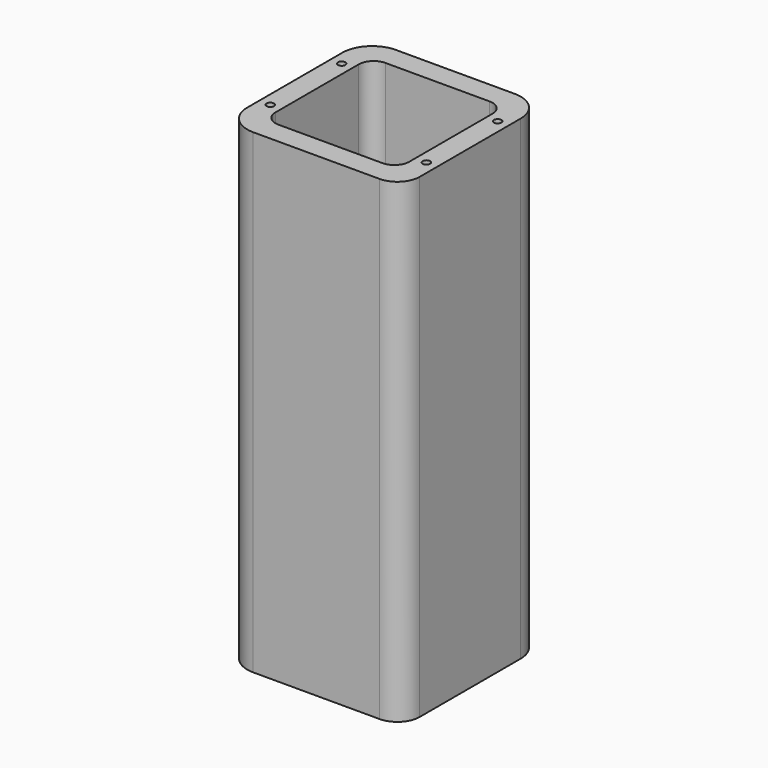
from build123d import *

# Parameters (mm, degrees)
F1_DEPTH = 203.2
F2_R     = 1.5875
F3_DEPTH = 25.4
F4_R     = 1.5875
F5_DEPTH = 25.4


with BuildPart() as f1:
    # F0 (on Top) → F1 (new body)
    with BuildSketch(Plane.XY):
        with BuildLine():
            Line((-25.4, -38.1), (28.575, -38.1))
            ThreePointArc((28.575, -38.1), (35.310192, -35.310192), (38.1, -28.575))
            Line((38.1, -28.575), (38.1, 25.4))
            ThreePointArc((38.1, 25.4), (34.380256, 34.380256), (25.4, 38.1))
            Line((25.4, 38.1), (-25.4, 38.1))
            ThreePointArc((-25.4, 38.1), (-34.380256, 34.380256), (-38.1, 25.4))
            Line((-38.1, 25.4), (-38.1, -25.4))
            ThreePointArc((-38.1, -25.4), (-34.380256, -34.380256), (-25.4, -38.1))
        make_face()
        with BuildLine():
            ThreePointArc((28.575, -22.225), (26.715128, -26.715128), (22.225, -28.575))
            Line((22.225, -28.575), (-22.225, -28.575))
            ThreePointArc((-22.225, -28.575), (-26.715128, -26.715128), (-28.575, -22.225))
            Line((-28.575, -22.225), (-28.575, 22.225))
            ThreePointArc((-28.575, 22.225), (-26.715128, 26.715128), (-22.225, 28.575))
            Line((-22.225, 28.575), (22.225, 28.575))
            ThreePointArc((22.225, 28.575), (26.715128, 26.715128), (28.575, 22.225))
            Line((28.575, 22.225), (28.575, -22.225))
        make_face(mode=Mode.SUBTRACT)
    extrude(amount=F1_DEPTH)

    # F2 (on face) → F3 (cut)
    with BuildSketch(Plane.XY.offset(203.2)):
        with Locations((-33.3375, 19.05)):
            Circle(F2_R)
        with Locations((-33.3375, -19.05)):
            Circle(F2_R)
        with Locations((33.3375, -19.05)):
            Circle(F2_R)
        with Locations((33.3375, 19.05)):
            Circle(F2_R)
    extrude(amount=-F3_DEPTH, mode=Mode.SUBTRACT)

    # F4 (on face) → F5 (cut)
    with BuildSketch(Plane(origin=(0, 0, 0), x_dir=(1, 0, 0), z_dir=(0, 0, -1))):
        with Locations((-33.3375, 19.05)):
            Circle(F4_R)
        with Locations((-33.3375, -19.05)):
            Circle(F4_R)
        with Locations((33.3375, 19.05)):
            Circle(F4_R)
        with Locations((33.3375, -19.05)):
            Circle(F4_R)
    extrude(amount=-F5_DEPTH, mode=Mode.SUBTRACT)


solid = f1.part
